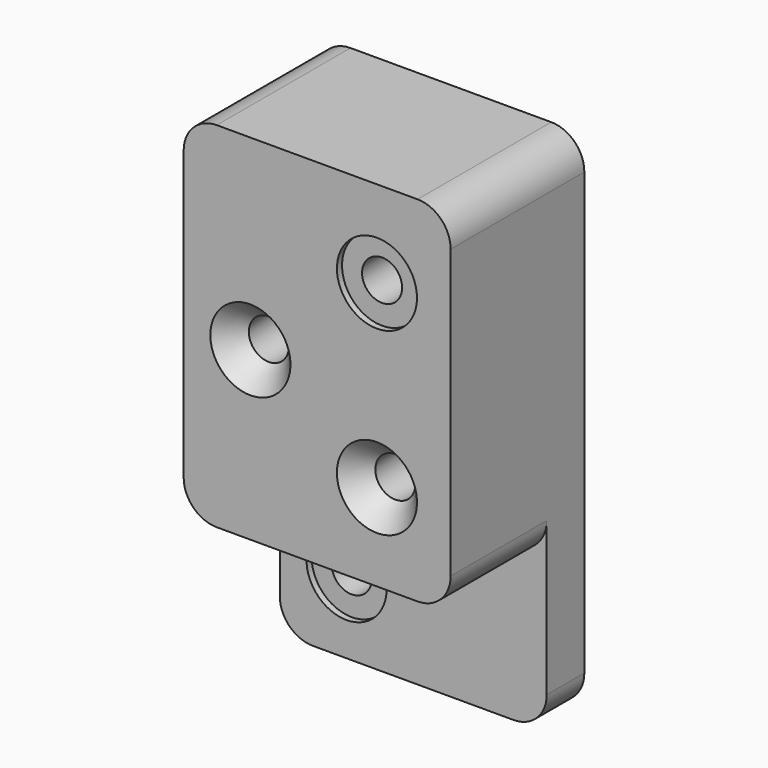
from build123d import *

# Parameters (mm, degrees)
F0_W                 = 127
F0_H                 = 168.402
F0_R                 = 9.525
F1_DEPTH             = 79.502
F2_D                 = 19.05
F2_CSINK_D           = 38.1
F2_CSINK_ANGLE       = 82
F3_W                 = 127
F3_H                 = 72.898
F3_R                 = 9.525
F4_DEPTH             = 22.352
F6_D                 = 19.05
F6_CBORE_D           = 38.1
F6_CBORE_DEPTH       = 3.048
F6_ON_F0_D           = 19.05
F6_ON_F0_CBORE_D     = 38.1
F6_ON_F0_CBORE_DEPTH = 3.048
F7_R                 = 15.748
F8_R                 = 15.748
F9_R                 = 15.748


with BuildPart() as f1:
    # F0 (on Front) → F1 (new body)
    with BuildSketch(Plane.XZ):
        with Locations((63.5, 84.201)):
            Rectangle(F0_W, F0_H)
        with Locations((31.75, 79.502)):
            Circle(F0_R, mode=Mode.SUBTRACT)
        with Locations((91.948, 41.402)):
            Circle(F0_R, mode=Mode.SUBTRACT)
        with Locations((91.948, 127)):
            Circle(F0_R, mode=Mode.SUBTRACT)
        with Locations((91.948, 127)):
            Circle(F0_R)
        with Locations((31.75, 79.502)):
            Circle(F0_R)
        with Locations((91.948, 41.402)):
            Circle(F0_R)
    extrude(amount=-F1_DEPTH)

    # F2 (through all)
    with Locations(Plane.XZ):
        with Locations((31.75, 79.502), (91.948, 41.402)):
            CounterSinkHole(F2_D / 2, F2_CSINK_D / 2, counter_sink_angle=F2_CSINK_ANGLE)

    # F3 (on face) → F4 (join)
    with BuildSketch(Plane(origin=(0, 79.502, 0), x_dir=(-1, 0, 0), z_dir=(0, 1, 0))):
        with Locations((-63.5, -36.449)):
            Rectangle(F3_W, F3_H)
        with Locations((-31.75, -37.846)):
            Circle(F3_R, mode=Mode.SUBTRACT)
        with Locations((-31.75, -37.846)):
            Circle(F3_R)
    extrude(amount=-F4_DEPTH)

    # F6 (through all)
    with Locations(Plane.XZ.offset(-57.15)):
        with Locations((31.75, -37.846)):
            CounterBoreHole(F6_D / 2, F6_CBORE_D / 2, F6_CBORE_DEPTH)

    # F6 on F0 (through all)
    with Locations(Plane.XZ):
        with Locations((91.948, 127)):
            CounterBoreHole(F6_ON_F0_D / 2, F6_ON_F0_CBORE_D / 2, F6_ON_F0_CBORE_DEPTH)

    # F7
    f7_edges = [f1.edges().sort_by_distance(p)[0] for p in [
        (127, 28.575, 0),
    ]]
    fillet(f7_edges, radius=F7_R)

    # F8
    f8_edges = [f1.edges().sort_by_distance(p)[0] for p in [
        (0, 28.575, 0),
        (0, 39.751, 168.402),
        (127, 39.751, 168.402),
    ]]
    fillet(f8_edges, radius=F8_R)

    # F9
    f9_edges = [f1.edges().sort_by_distance(p)[0] for p in [
        (0, 68.326, -72.898),
        (127, 68.326, -72.898),
    ]]
    fillet(f9_edges, radius=F9_R)


solid = f1.part
